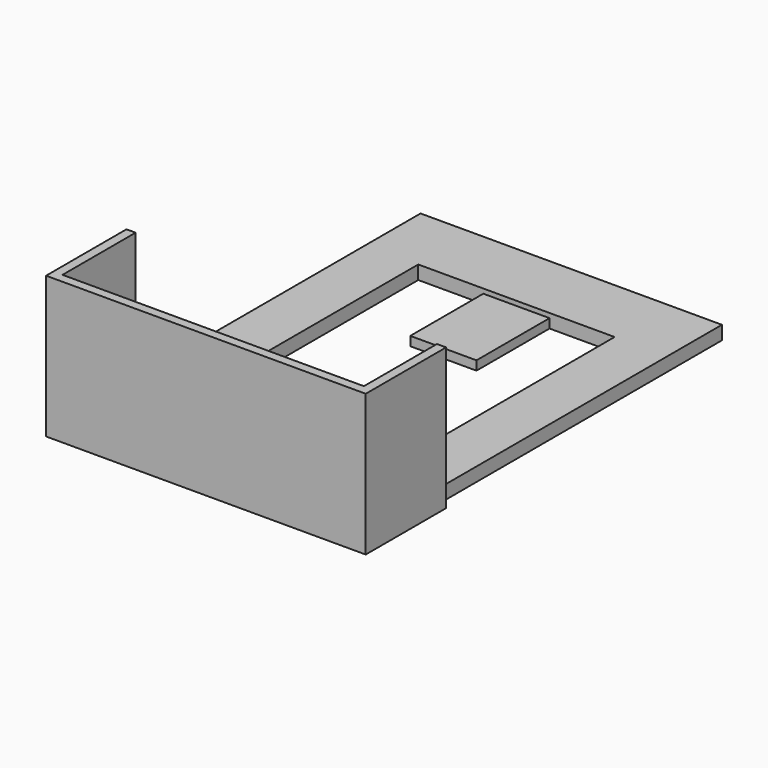
from build123d import *

# Parameters (mm, degrees)
F0_W     = 70
F0_H     = 100
F1_DEPTH = 3
F3_DEPTH = 28
F4_W     = 2
F4_H     = 78
F5_DEPTH = 30.6
F7_DEPTH = 25
F8_W     = 14.5
F8_H     = 20
F9_DEPTH = 1


with BuildPart() as f1:
    # F0 (on Top) → F1 (new body)
    with BuildSketch(Plane.XY):
        with Locations((-25.664028, 6.657216)):
            Rectangle(F0_W, F0_H)
    extrude(amount=F1_DEPTH)

    # F2 (on face) → F3 (join)
    with BuildSketch(Plane.XY.offset(3)):
        Polygon((-60.664028, -21.342784), (-60.664028, -43.342784), (9.335972, -43.342784), (9.335972, -21.342784), (7.335972, -21.342784), (7.335972, -41.342784), (-58.664028, -41.342784), (-58.664028, -21.342784), align=None)
    extrude(amount=F3_DEPTH)

    # F4 (on face) → F5 (cut)
    with BuildSketch(Plane.XY.offset(3)):
        with Locations((8.335972, 17.657216)):
            Rectangle(F4_W, F4_H)
        with Locations((-59.664028, 17.657216)):
            Rectangle(F4_W, F4_H)
    extrude(amount=-F5_DEPTH, mode=Mode.SUBTRACT)

    # F6 (on face) → F7 (cut)
    with BuildSketch(Plane(origin=(0, 0, 0), x_dir=(1, 0, 0), z_dir=(0, 0, -1))):
        Polygon((-4.164028, 21.016594), (-47.164028, 21.016594), (-47.164028, -41.657216), (-32.914028, -41.657216), (-32.914028, -21.657216), (-25.664028, -21.657216), (-18.414028, -21.657216), (-18.414028, -41.657216), (-4.164028, -41.657216), align=None)
    extrude(amount=-F7_DEPTH, mode=Mode.SUBTRACT)

    # F8 (on face) → F9 (cut)
    with BuildSketch(Plane.XY.offset(3)):
        with Locations((-25.664028, 31.657216)):
            Rectangle(F8_W, F8_H)
    extrude(amount=-F9_DEPTH, mode=Mode.SUBTRACT)


solid = f1.part
